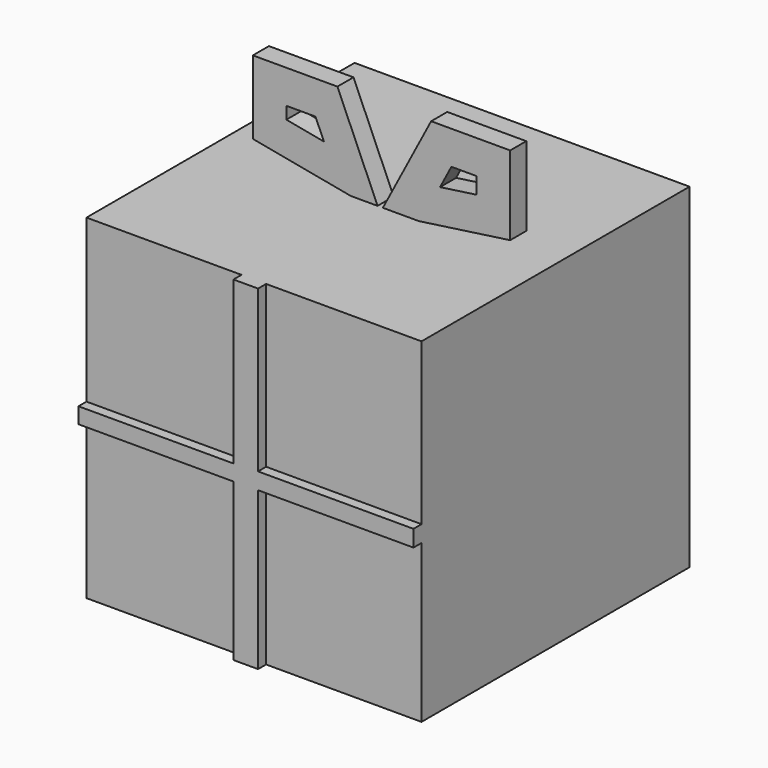
from build123d import *

# Parameters (mm, degrees)
F0_W      = 25.4
F0_H      = 25.4
F1_DEPTH  = 12.7
F3_DEPTH  = 0.762
F4_T      = -2.54
F4_2_T    = -2.54
F6_W      = 1.864288759
F6_H      = 25.4
F7_DEPTH  = 0.762
F8_W      = 11.7518745617
F8_H      = 1.2014307722
F9_DEPTH  = 0.762
F10_W     = 11.7838366793
F10_H     = 1.254139177
F11_DEPTH = 0.762


with BuildPart() as f1:
    # F0 (on Right) → F1 (new body, symmetric)
    with BuildSketch(Plane.YZ):
        Rectangle(F0_W, F0_H)
    extrude(amount=F1_DEPTH, both=True)

    # F6 (on face) → F7 (join)
    with BuildSketch(Plane.XZ.offset(12.7)):
        with Locations((-0.0159810588, 0)):
            Rectangle(F6_W, F6_H)
    extrude(amount=F7_DEPTH)

    # F8 (on face) → F9 (join)
    with BuildSketch(Plane.XZ.offset(12.7)):
        with Locations((-6.8240627191, -0.1824748033)):
            Rectangle(F8_W, F8_H)
    extrude(amount=F9_DEPTH)

    # F10 (on face) → F11 (join)
    with BuildSketch(Plane.XZ.offset(12.7)):
        with Locations((6.8080816603, -0.1299907744)):
            Rectangle(F10_W, F10_H)
    extrude(amount=F11_DEPTH)


with BuildPart() as f3:
    # F2 (on Front) → F3 (new body, symmetric)
    with BuildSketch(Plane.XZ):
        Polygon((3.8788926322, 21.6503571719), (0, 14.264870435), (9.8708914593, 15.658358112), (9.8708914593, 21.6503571719), align=None)
    extrude(amount=F3_DEPTH, both=True)

    # F4
    f4_openings = [f3.faces().sort_by_distance(p)[0] for p in [
        (5.725764, 0.762, 18.046026),
        (5.725764, -0.762, 18.046026),
    ]]
    offset(amount=F4_T, openings=f4_openings)


with BuildPart() as f3b:
    # F2 (on Front) → F3, piece 2 (new body, symmetric)
    with BuildSketch(Plane.XZ):
        Polygon((-9.637940675, 16.0764046013), (0, 14.264870435), (-3.2278960571, 21.6503571719), (-9.637940675, 21.6503571719), align=None)
    extrude(amount=F3_DEPTH, both=True)

    # F4#2
    f4_2_openings = [f3b.faces().sort_by_distance(p)[0] for p in [
        (-5.424398, -0.762, 18.200889),
        (-5.424398, 0.762, 18.200889),
    ]]
    offset(amount=F4_2_T, openings=f4_2_openings)


with BuildPart() as f3b_1:
    # F5: moved
    add(f3b.part.moved(Location((0, 0, -1.9812))))


with BuildPart() as f3_1:
    # F5: moved
    add(f3.part.moved(Location((0, 0, -1.9812))))


solid = Compound([f1.part, f3b_1.part, f3_1.part])
